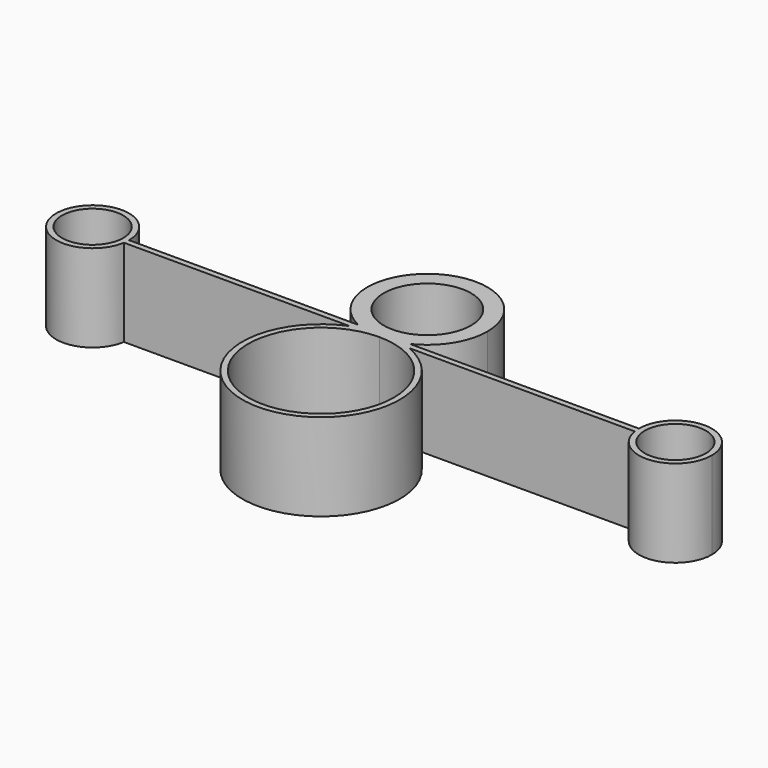
from build123d import *

# Parameters (mm, degrees)
F1_DEPTH = 30
F2_R     = 10.5
F3_DEPTH = 25
F2_R_2   = 15
F4_DEPTH = 25


with BuildPart() as f1:
    # F0 (on Top) → F1 (new body)
    with BuildSketch(Plane.XY):
        with BuildLine():
            ThreePointArc((8.8575914058, 27), (4.5402897901, 25.5062154657), (0, 25))
            ThreePointArc((0, 25), (-4.5402897901, 25.5062154657), (-8.8575914058, 27))
            Line((-8.8575914058, 27), (-87.5, 27))
            ThreePointArc((-87.5, 27), (-87.5403243724, 25.9967636098), (-87.6610373207, 25))
            Line((-87.6610373207, 25), (-10.1980390272, 25))
            ThreePointArc((-10.1980390272, 25), (0, -27), (10.1980390272, 25))
            Line((10.1980390272, 25), (87.6610373207, 25))
            ThreePointArc((87.6610373207, 25), (87.5403243724, 25.9967636098), (87.5, 27))
            Line((87.5, 27), (8.8575914058, 27))
        make_face()
        with BuildLine():
            ThreePointArc((0, 25), (17.6776695297, 17.6776695297), (25, 0))
            ThreePointArc((25, 0), (-17.6776695297, -17.6776695297), (0, 25))
        make_face(mode=Mode.SUBTRACT)
        with BuildLine():
            ThreePointArc((112.5, 27), (100, 39.5), (87.5, 27))
            Line((87.5, 27), (100, 27))
            Line((100, 27), (100, 25))
            Line((100, 25), (87.6610373207, 25))
            ThreePointArc((87.6610373207, 25), (101.0032363902, 14.5403243724), (112.5, 27))
        make_face()
        with BuildLine():
            Line((100, 27), (87.5, 27))
            ThreePointArc((87.5, 27), (87.5403243724, 25.9967636098), (87.6610373207, 25))
            Line((87.6610373207, 25), (100, 25))
            Line((100, 25), (100, 27))
        make_face()
        with BuildLine():
            Line((-100, 27), (-87.5, 27))
            ThreePointArc((-87.5, 27), (-112.4596756276, 28.0032363902), (-87.6610373207, 25))
            Line((-87.6610373207, 25), (-100, 25))
            Line((-100, 25), (-100, 27))
        make_face()
        with BuildLine():
            ThreePointArc((-8.8575914058, 27), (-4.5402897901, 25.5062154657), (0, 25))
            ThreePointArc((0, 25), (4.5402897901, 25.5062154657), (8.8575914058, 27))
            Line((8.8575914058, 27), (0, 27))
            Line((0, 27), (-8.8575914058, 27))
        make_face()
        with BuildLine():
            ThreePointArc((20.6142313778, 45.6142313778), (-11.0080447085, 63.0432154846), (-8.8575914058, 27))
            Line((-8.8575914058, 27), (0, 27))
            Line((0, 27), (8.8575914058, 27))
            ThreePointArc((8.8575914058, 27), (17.4289841068, 34.6061866693), (20.6142313778, 45.6142313778))
        make_face()
        with BuildLine():
            ThreePointArc((-87.6610373207, 25), (-87.5403243724, 25.9967636098), (-87.5, 27))
            Line((-87.5, 27), (-100, 27))
            Line((-100, 27), (-100, 25))
            Line((-100, 25), (-87.6610373207, 25))
        make_face()
    extrude(amount=F1_DEPTH)

    # F2 (on face) → F3 (cut)
    with BuildSketch(Plane.XY.offset(30)):
        with Locations((100, 27)):
            Circle(F2_R)
        with Locations((-100, 27)):
            Circle(F2_R)
    extrude(amount=-F3_DEPTH, mode=Mode.SUBTRACT)

    # F2 (on face) → F4 (cut)
    with BuildSketch(Plane.XY.offset(30)):
        with Locations((0, 45.6142313778)):
            Circle(F2_R_2)
    extrude(amount=-F4_DEPTH, mode=Mode.SUBTRACT)


solid = f1.part
